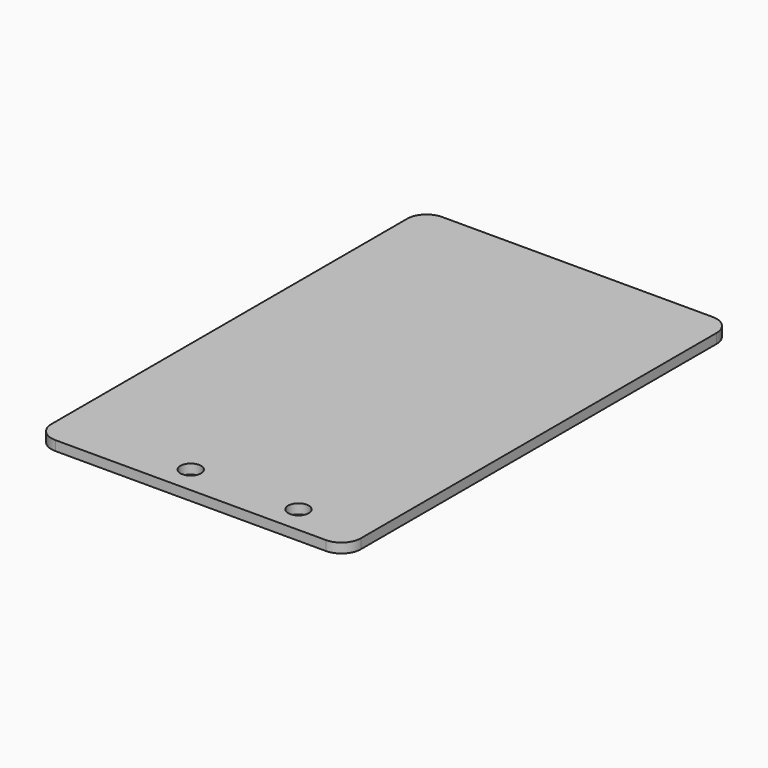
from build123d import *

# Parameters (mm, degrees)
SKETCH_W        = 48
SKETCH_H        = 75
PAD_DEPTH       = 1.5
FILLET014_R     = 3
FILLET015_R     = 3
FILLET016_R     = 3
FILLET017_R     = 3
SKETCH016_R     = 1.6
POCKET012_DEPTH = 1.501


with BuildPart() as part:
    # Sketch → Pad (new body)
    with BuildSketch(Plane.XY):
        with Locations((-5, 0)):
            Rectangle(SKETCH_W, SKETCH_H)
    extrude(amount=PAD_DEPTH)

    # Fillet014
    fillet014_edges = [part.edges().sort_by_distance(p)[0] for p in [
        (19, 37.5, 0.75),
    ]]
    fillet(fillet014_edges, radius=FILLET014_R)

    # Fillet015
    fillet015_edges = [part.edges().sort_by_distance(p)[0] for p in [
        (-29, 37.5, 0.75),
    ]]
    fillet(fillet015_edges, radius=FILLET015_R)

    # Fillet016
    fillet016_edges = [part.edges().sort_by_distance(p)[0] for p in [
        (-29, -37.5, 0.75),
    ]]
    fillet(fillet016_edges, radius=FILLET016_R)

    # Fillet017
    fillet017_edges = [part.edges().sort_by_distance(p)[0] for p in [
        (19, -37.5, 0.75),
    ]]
    fillet(fillet017_edges, radius=FILLET017_R)

    # Sketch016 → Pocket012 (cut, through all)
    with BuildSketch(Plane(origin=(0, 0, 0), x_dir=(1, 0, 0), z_dir=(0, 0, -1))):
        with Locations((-8.35928, 33.2899)):
            Circle(SKETCH016_R)
        with Locations((8.35928, 33.2899)):
            Circle(SKETCH016_R)
    extrude(amount=-POCKET012_DEPTH, mode=Mode.SUBTRACT)


solid = part.part
